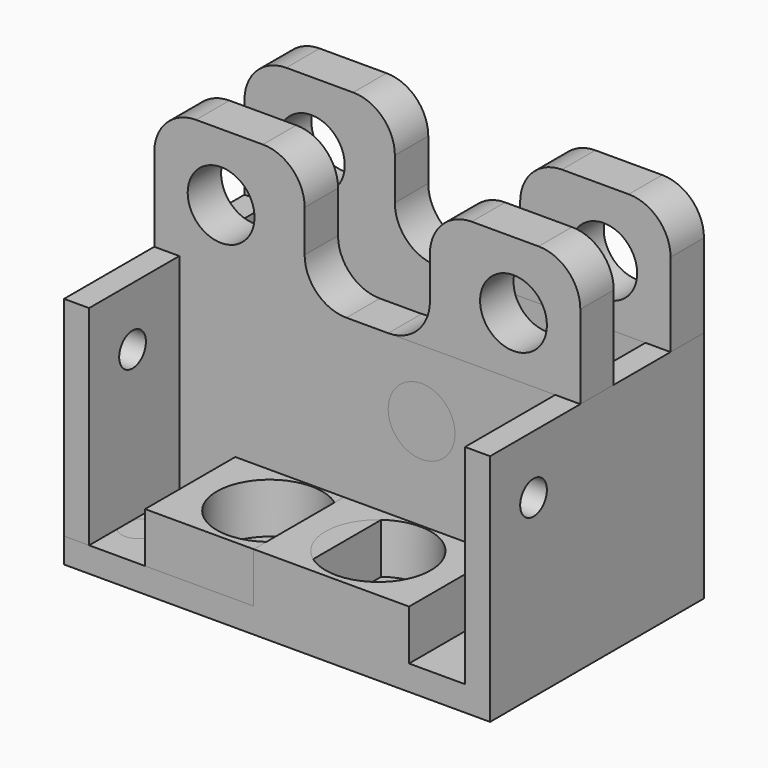
from build123d import *

# Parameters (mm, degrees)
F0_W      = 51
F0_H      = 32
F0_R      = 2
F1_DEPTH  = 3
F3_DEPTH  = 25
F2_W      = 18.6
F2_H      = 13.5
F2_R      = 6.3
F4_DEPTH  = 6
F5_DEPTH  = 3
F6_W      = 18
F6_H      = 5
F7_DEPTH  = 15
F8_R      = 4
F9_DEPTH  = 18.501
F10_DEPTH = 18.501
F11_R     = 5
F12_R     = 2
F13_DEPTH = 3


with BuildPart() as f1:
    # F0 (on Top) → F1 (new body)
    with BuildSketch(Plane.XY):
        Rectangle(F0_W, F0_H)
        with Locations((21, -10.5)):
            Circle(F0_R, mode=Mode.SUBTRACT)
    extrude(amount=F1_DEPTH)

    # F2 (on face) → F3 (join)
    with BuildSketch(Plane.XY.offset(3)):
        Polygon((-22.5, 2.5), (-22.5, 11), (25.5, 11), (25.5, 16), (-25.5, 16), (-25.5, -16), (-22.5, -16), (-22.5, -2.5), (-15.8, -2.5), (2.8, -2.5), (25.5, -2.5), (25.5, 2.5), align=None)
    extrude(amount=F3_DEPTH)

    # F2 (on face) → F4 (join)
    with BuildSketch(Plane.XY.offset(3)):
        with Locations((-6.5, -9.25)):
            Rectangle(F2_W, F2_H)
        with Locations((-6.5, -9)):
            Circle(F2_R, mode=Mode.SUBTRACT)
    extrude(amount=F4_DEPTH)

    # F5 (cut, through all): a face of the model
    f5_faces = [f1.faces().sort_by_distance(p)[0] for p in [
        (-6.5, -9, 3),
    ]]
    extrude(f5_faces, amount=-F5_DEPTH, mode=Mode.SUBTRACT)

    # F6 (on face) → F7 (join)
    with BuildSketch(Plane.XY.offset(28)):
        with Locations((16.5, 13.5)):
            Rectangle(F6_W, F6_H)
        with Locations((16.5, 0)):
            Rectangle(F6_W, F6_H)
    extrude(amount=F7_DEPTH)

    # F8 (on face) → F9 (cut, through all)
    with BuildSketch(Plane.XZ.offset(2.5)):
        with Locations((-6.5, 20)):
            Circle(F8_R)
    extrude(amount=-F9_DEPTH, mode=Mode.SUBTRACT)

    # F8 (on face) → F10 (cut, through all)
    with BuildSketch(Plane.XZ.offset(2.5)):
        with Locations((17.5, 35)):
            Circle(F8_R)
    extrude(amount=-F10_DEPTH, mode=Mode.SUBTRACT)

    # F11
    f11_edges = [f1.edges().sort_by_distance(p)[0] for p in [
        (25.5, 0, 43),
        (25.5, 13.5, 43),
        (7.5, 13.5, 43),
        (7.5, 0, 43),
        (7.5, 13.5, 28),
        (7.5, 0, 28),
    ]]
    fillet(f11_edges, radius=F11_R)

    # F12 (on face) → F13 (cut, through all)
    with BuildSketch(Plane(origin=(-25.5, 0, 0), x_dir=(0, -1, 0), z_dir=(-1, 0, 0))):
        with Locations((9.5, 21)):
            Circle(F12_R)
    extrude(amount=-F13_DEPTH, mode=Mode.SUBTRACT)


with BuildPart() as f14_1:
    # F14: instance of F1
    add(f1.part.mirror(Plane.YZ))


solid = Compound([f1.part, f14_1.part])
